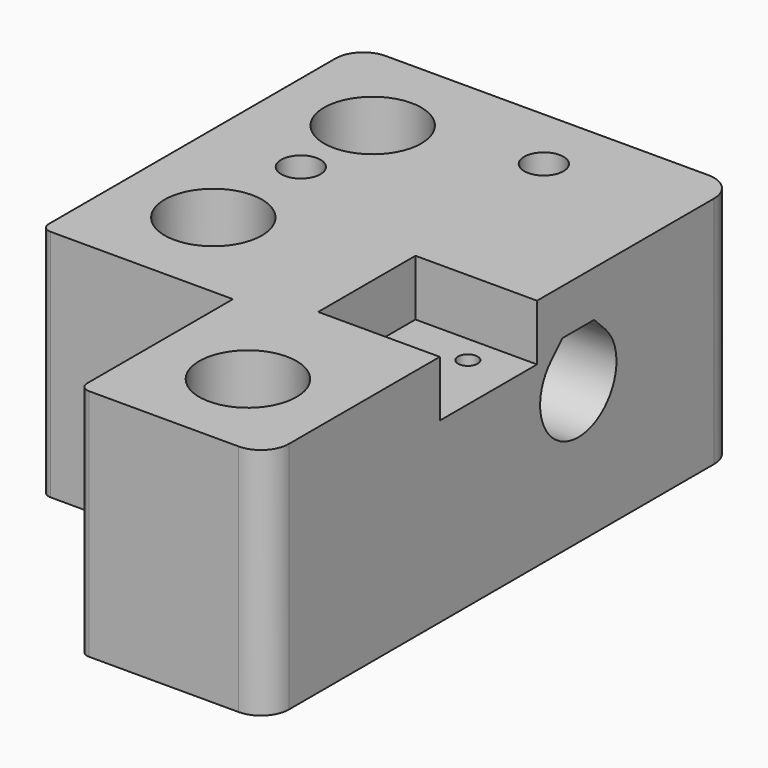
from build123d import *

# Parameters (mm, degrees)
EXTRUDE_DEPTH     = 20
BOX003_W          = 15
BOX003_H          = 7.5
BOX003_DEPTH      = 6
CYLINDER003_R     = 2.1
CYLINDER003_DEPTH = 5
CYLINDER002_R     = 1.05
CYLINDER002_DEPTH = 7
BOX002_W          = 13
BOX002_H          = 13
BOX002_DEPTH      = 6
CYLINDER001_R     = 2.65
CYLINDER001_DEPTH = 5
CYLINDER_R        = 5.2
CYLINDER_DEPTH    = 20
BOX001_W          = 20.5
BOX001_H          = 20.5
BOX001_DEPTH      = 25
BOX004_W          = 7.5
BOX004_H          = 13
BOX004_DEPTH      = 6
BOX_W             = 40.5
BOX_H             = 62.8
BOX_DEPTH         = 25
FILLET_1_R        = 3
FILLET_2_R        = 1


with BuildPart() as obj1:
    # Sketch → Extrude (new body)
    with BuildSketch(Plane.YZ):
        with BuildLine():
            ThreePointArc((-3.606243, 3.606246), (0, -5.1), (3.606243, 3.606246))
            Line((2.112489, 5.1), (3.606243, 3.606246))
            Line((-2.112489, 5.1), (2.112489, 5.1))
            Line((-3.606243, 3.606246), (-2.112489, 5.1))
        make_face()
    extrude(amount=EXTRUDE_DEPTH)


with BuildPart() as obj1_1:
    # Extrude placement: moved
    add(obj1.part.moved(Location((20.5, 41.65, 15))))


with BuildPart() as hueco_taladro4:
    # Box003 → Box003 (new body)
    with BuildSketch(Plane(origin=(0, 39, 14), x_dir=(1, 0, 0), z_dir=(0, 0, 1))):
        with Locations((7.5, 3.75)):
            Rectangle(BOX003_W, BOX003_H)
    extrude(amount=BOX003_DEPTH)


with BuildPart() as taladro4:
    # Cylinder003 → Cylinder003 (new body)
    with BuildSketch(Plane(origin=(10, 42.7, 20), x_dir=(1, 0, 0), z_dir=(0, 0, 1))):
        Circle(CYLINDER003_R)
    extrude(amount=CYLINDER003_DEPTH)


with BuildPart() as clone005:
    # Clone005 base: copy of taladro4
    add(taladro4.part)


with BuildPart() as clone005_1:
    # Clone005 placement: moved
    add(clone005.part.moved(Location((15.5, 13.1, 0))))


with BuildPart() as taladro_endstop:
    # Cylinder002 → Cylinder002 (new body)
    with BuildSketch(Plane(origin=(35.5, 26.14, 12), x_dir=(1, 0, 0), z_dir=(0, 0, 1))):
        Circle(CYLINDER002_R)
    extrude(amount=CYLINDER002_DEPTH)


with BuildPart() as clone004:
    # Clone004 base: copy of taladro_endstop
    add(taladro_endstop.part)


with BuildPart() as clone004_1:
    # Clone004 placement: moved
    add(clone004.part.moved(Location((0, 7, 0))))


with BuildPart() as hueco_endstop:
    # Box002 → Box002 (new body)
    with BuildSketch(Plane(origin=(27.5, 23.14, 19), x_dir=(1, 0, 0), z_dir=(0, 0, 1))):
        with Locations((6.5, 6.5)):
            Rectangle(BOX002_W, BOX002_H)
    extrude(amount=BOX002_DEPTH)


with BuildPart() as taladro5:
    # Cylinder001 → Cylinder001 (new body)
    with BuildSketch(Plane(origin=(30.5, 10, 0), x_dir=(1, 0, 0), z_dir=(0, 0, 1))):
        Circle(CYLINDER001_R)
    extrude(amount=CYLINDER001_DEPTH)


with BuildPart() as clone002:
    # Clone002 base: copy of taladro5
    add(taladro5.part)


with BuildPart() as clone002_1:
    # Clone002 placement: moved
    add(clone002.part.moved(Location((-20.5, 21, 0))))


with BuildPart() as clone003:
    # Clone003 base: copy of Clone002
    add(clone002_1.part)


with BuildPart() as clone003_1:
    # Clone003 placement: moved
    add(clone003.part.moved(Location((0, 21.3, 0))))


with BuildPart() as taladro10:
    # Cylinder → Cylinder (new body)
    with BuildSketch(Plane(origin=(30.5, 10, 5), x_dir=(1, 0, 0), z_dir=(0, 0, 1))):
        Circle(CYLINDER_R)
    extrude(amount=CYLINDER_DEPTH)


with BuildPart() as clone:
    # Clone base: copy of taladro10
    add(taladro10.part)


with BuildPart() as clone_1:
    # Clone placement: moved
    add(clone.part.moved(Location((-20.5, 21, 0))))


with BuildPart() as clone001:
    # Clone001 base: copy of Clone
    add(clone_1.part)


with BuildPart() as clone001_1:
    # Clone001 placement: moved
    add(clone001.part.moved(Location((0, 21.3, 0))))


with BuildPart() as obj2:
    # Box001 → Box001 (new body)
    with BuildSketch(Plane.XY):
        with Locations((10.25, 10.25)):
            Rectangle(BOX001_W, BOX001_H)
    extrude(amount=BOX001_DEPTH)


with BuildPart() as huecos:
    # Box004 → Box004 (new body)
    with BuildSketch(Plane(origin=(21.75, 49.8, 14), x_dir=(1, 0, 0), z_dir=(0, 0, 1))):
        with Locations((3.75, 6.5)):
            Rectangle(BOX004_W, BOX004_H)
    extrude(amount=BOX004_DEPTH)

    # Fusion: union hueco_taladro4, Clone005, taladro4, Clone004, taladro_endstop, hueco_endstop, Clone003, Clone002, taladro5, Clone001, Clone, taladro10, obj2
    add(hueco_taladro4.part)
    add(clone005_1.part)
    add(taladro4.part)
    add(clone004_1.part)
    add(taladro_endstop.part)
    add(hueco_endstop.part)
    add(clone003_1.part)
    add(clone002_1.part)
    add(taladro5.part)
    add(clone001_1.part)
    add(clone_1.part)
    add(taladro10.part)
    add(obj2.part)


with BuildPart() as obj3:
    # Box → Box (new body)
    with BuildSketch(Plane.XY):
        with Locations((20.25, 31.4)):
            Rectangle(BOX_W, BOX_H)
    extrude(amount=BOX_DEPTH)

    # Cut: cut huecos
    add(huecos.part, mode=Mode.SUBTRACT)

    # Cut001: cut obj1
    add(obj1_1.part, mode=Mode.SUBTRACT)

    # Fillet 1
    fillet_1_edges = [obj3.edges().sort_by_distance(p)[0] for p in [
        (0, 62.8, 12.5),
        (40.5, 62.8, 12.5),
        (40.5, 0, 12.5),
    ]]
    fillet(fillet_1_edges, radius=FILLET_1_R)

    # Fillet 2
    fillet_2_edges = [obj3.edges().sort_by_distance(p)[0] for p in [
        (0, 20.5, 12.5),
        (20.5, 0, 12.5),
    ]]
    fillet(fillet_2_edges, radius=FILLET_2_R)


solid = obj3.part
